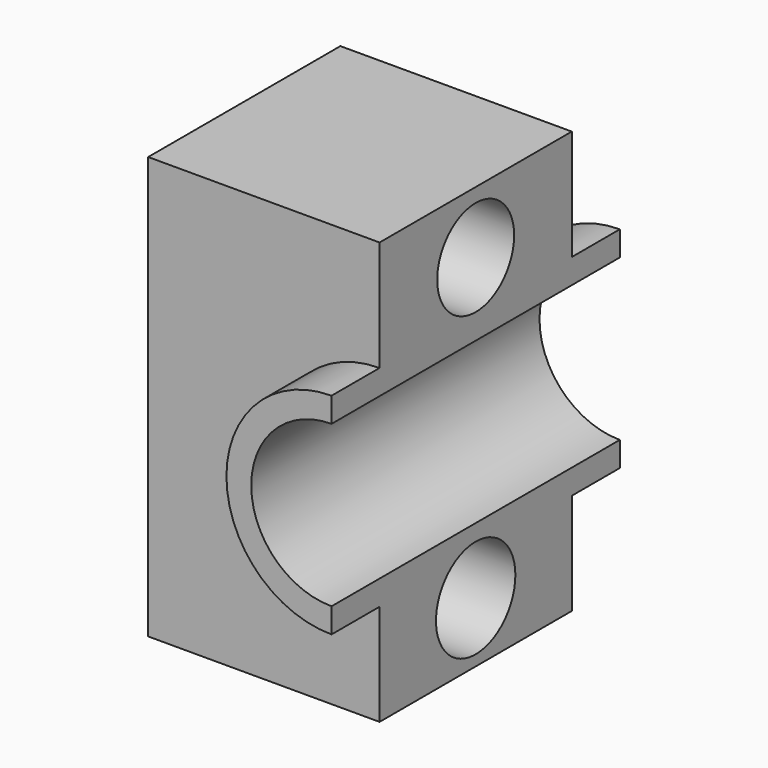
from build123d import *

# Parameters (mm, degrees)
F0_W     = 95.948249
F0_H     = 89.254186
F0_R     = 22.222856
F1_DEPTH = 25.4
F0_R_2   = 16.979285
F2_DEPTH = 38.1
F4_DEPTH = 558.8
F5_R     = 10.492491
F5_R_2   = 10.165453
F6_DEPTH = 48.931418


with BuildPart() as f1:
    # F0 (on Front) → F1 (new body, symmetric)
    with BuildSketch(Plane.XZ):
        with Locations((-0.956293, 0.956297)):
            Rectangle(F0_W, F0_H)
        Circle(F0_R, mode=Mode.SUBTRACT)
    extrude(amount=F1_DEPTH, both=True)

    # F0 (on Front) → F2 (join, symmetric)
    with BuildSketch(Plane.XZ):
        Circle(F0_R)
        Circle(F0_R_2, mode=Mode.SUBTRACT)
    extrude(amount=F2_DEPTH, both=True)

    # F3 (on Top) → F4 (cut, symmetric)
    with BuildSketch(Plane.XY):
        Polygon((0, 50.046094), (0, -54.508805), (60.724724, -51.321156), (64.549901, 41.439444), align=None)
    extrude(amount=F4_DEPTH, both=True, mode=Mode.SUBTRACT)

    # F5 (on Right) → F6 (cut, through all)
    with BuildSketch(Plane.YZ):
        with Locations((0, -30.9202)):
            Circle(F5_R)
        with Locations((0, 32.45692)):
            Circle(F5_R_2)
    extrude(amount=-F6_DEPTH, mode=Mode.SUBTRACT)


solid = f1.part
